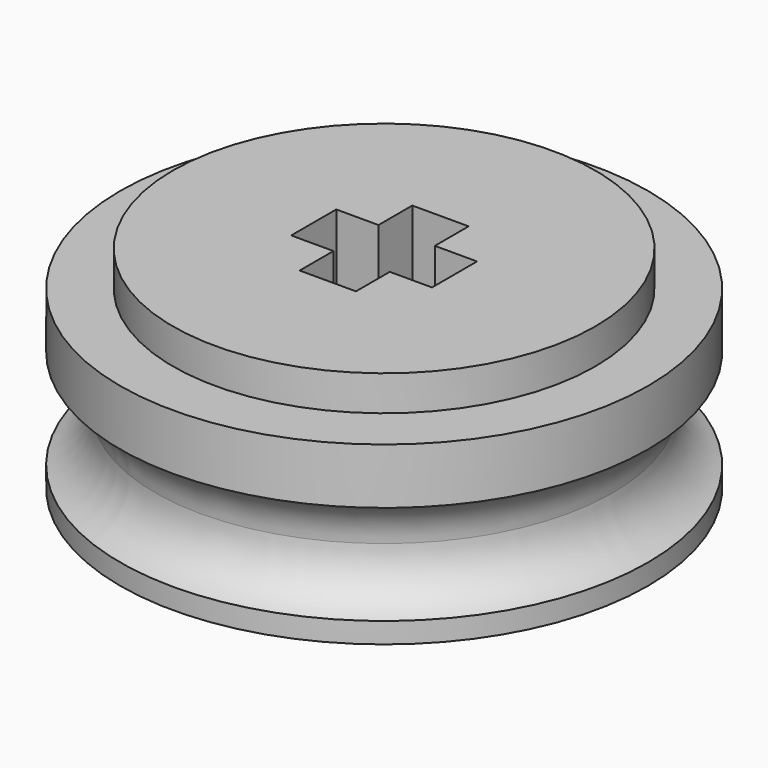
from build123d import *

# Parameters (mm, degrees)
F0_R     = 7.5
F1_DEPTH = 5
F2_R     = 6
F3_DEPTH = 1
F4_W     = 1.6
F4_H     = 1.2
F4_W_2   = 1.2
F4_H_2   = 1.6
F5_DEPTH = 3
F7_R     = 1.5


with BuildPart() as f1:
    # F0 (on Top) → F1 (new body)
    with BuildSketch(Plane.XY):
        Circle(F0_R)
    extrude(amount=F1_DEPTH)

    # F2 (on face) → F3 (join)
    with BuildSketch(Plane.XY.offset(5)):
        Circle(F2_R)
    extrude(amount=F3_DEPTH)

    # F4 (on face) → F5 (cut)
    with BuildSketch(Plane.XY.offset(6)):
        with Locations((0, 1.4)):
            Rectangle(F4_W, F4_H)
        with Locations((-1.4, 0)):
            Rectangle(F4_W_2, F4_H_2)
        Rectangle(F4_W, F4_H_2)
        with Locations((1.4, 0)):
            Rectangle(F4_W_2, F4_H_2)
        with Locations((0, -1.4)):
            Rectangle(F4_W, F4_H)
    extrude(amount=-F5_DEPTH, mode=Mode.SUBTRACT)

    # F7 (on Right) → F8 (revolve, cut)
    with BuildSketch(Plane.YZ):
        with Locations((-8, 2)):
            Circle(F7_R)
    revolve(axis=Axis((0, 0, 2.2380100563), (0, 0, -1)), mode=Mode.SUBTRACT)


solid = f1.part
